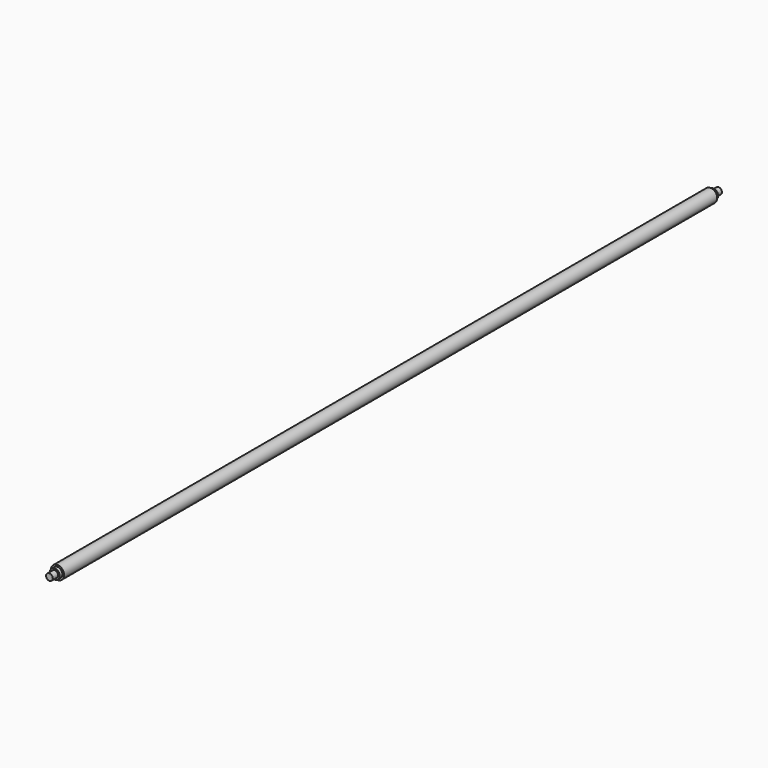
from build123d import *

# Parameters (mm, degrees)
F0_R     = 12.7
F1_DEPTH = 793.75
F2_R     = 12.7
F2_R_2   = 9.398
F3_DEPTH = 19.05
F4_R     = 12.7
F4_R_2   = 9.398
F5_DEPTH = 19.05
F6_R     = 9.398
F6_R_2   = 6.35
F7_DEPTH = 12.7
F8_R     = 9.398
F8_R_2   = 6.35
F9_DEPTH = 12.7


with BuildPart() as f1:
    # F0 (on Front) → F1 (new body, symmetric)
    with BuildSketch(Plane.XZ):
        Circle(F0_R)
    extrude(amount=F1_DEPTH, both=True)

    # F2 (on face) → F3 (cut)
    with BuildSketch(Plane(origin=(0, 793.75, 0), x_dir=(-1, 0, 0), z_dir=(0, 1, 0))):
        Circle(F2_R)
        Circle(F2_R_2, mode=Mode.SUBTRACT)
    extrude(amount=-F3_DEPTH, mode=Mode.SUBTRACT)

    # F4 (on face) → F5 (cut)
    with BuildSketch(Plane.XZ.offset(793.75)):
        Circle(F4_R)
        Circle(F4_R_2, mode=Mode.SUBTRACT)
    extrude(amount=-F5_DEPTH, mode=Mode.SUBTRACT)

    # F6 (on face) → F7 (cut)
    with BuildSketch(Plane.XZ.offset(793.75)):
        Circle(F6_R)
        Circle(F6_R_2, mode=Mode.SUBTRACT)
    extrude(amount=-F7_DEPTH, mode=Mode.SUBTRACT)

    # F8 (on face) → F9 (cut)
    with BuildSketch(Plane(origin=(0, 793.75, 0), x_dir=(-1, 0, 0), z_dir=(0, 1, 0))):
        Circle(F8_R)
        Circle(F8_R_2, mode=Mode.SUBTRACT)
    extrude(amount=-F9_DEPTH, mode=Mode.SUBTRACT)


solid = f1.part
